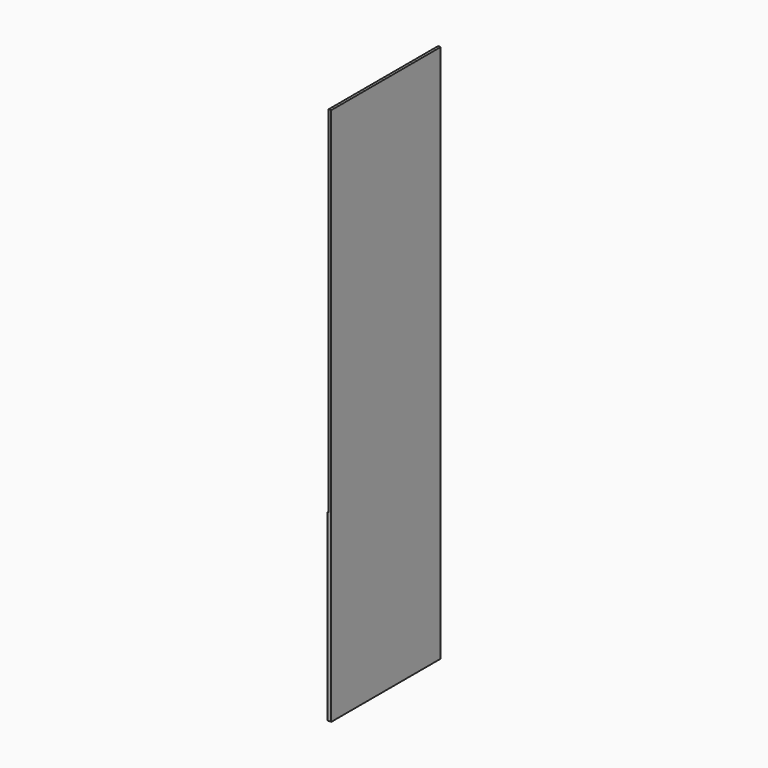
from build123d import *

# Parameters (mm, degrees)
F0_W     = 635
F0_H     = 2500
F1_DEPTH = 18
F2_W     = 635
F2_H     = 1648
F3_DEPTH = 6


with BuildPart() as f1:
    # F0 (on Right) → F1 (new body)
    with BuildSketch(Plane.YZ):
        Rectangle(F0_W, F0_H)
    extrude(amount=F1_DEPTH)

    # F2 (on face) → F3 (cut)
    with BuildSketch(Plane(origin=(0, 0, 0), x_dir=(0, -1, 0), z_dir=(-1, 0, 0))):
        with Locations((0, 426)):
            Rectangle(F2_W, F2_H)
    extrude(amount=-F3_DEPTH, mode=Mode.SUBTRACT)


solid = f1.part
